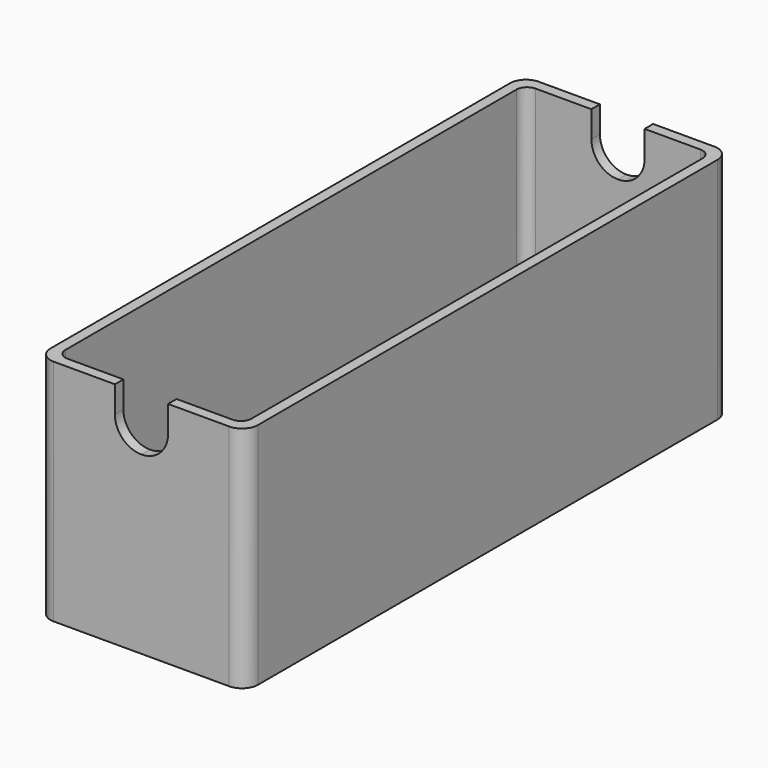
from build123d import *

# Parameters (mm, degrees)
F4_W      = 39
F4_H      = 114
F5_DEPTH  = 43
F6_T      = -2
F7_W      = 35
F7_H      = 2
F8_DEPTH  = 6
F9_W      = 2.75
F9_H      = 2
F10_DEPTH = 2
F11_R     = 2
F13_DEPTH = 114.001
F14_R     = 3


with BuildPart() as f5:
    # F4 (on Top) → F5 (new body)
    with BuildSketch(Plane.XY):
        Rectangle(F4_W, F4_H)
    extrude(amount=F5_DEPTH)

    # F6
    f6_openings = [f5.faces().sort_by_distance(p)[0] for p in [
        (0, 0, 43),
    ]]
    offset(amount=F6_T, openings=f6_openings)

    # F7 (on face) → F8 (join)
    with BuildSketch(Plane.XY.offset(2)):
        with Locations((0, 36.5)):
            Rectangle(F7_W, F7_H)
        with Locations((0, -49)):
            Rectangle(F7_W, F7_H)
    extrude(amount=F8_DEPTH)

    # F9 (on face) → F10 (join)
    with BuildSketch(Plane.XY.offset(8)):
        with Locations((-16.125, 36.5)):
            Rectangle(F9_W, F9_H)
        with Locations((16.125, 36.5)):
            Rectangle(F9_W, F9_H)
        with Locations((-16.125, -49)):
            Rectangle(F9_W, F9_H)
        with Locations((16.125, -49)):
            Rectangle(F9_W, F9_H)
    extrude(amount=F10_DEPTH)

    # F11
    f11_edges = [f5.edges().sort_by_distance(p)[0] for p in [
        (-17.5, 55, 22.5),
        (-17.5, 46.25, 2),
        (0, 55, 2),
        (-17.5, -6.25, 2),
        (0, -48, 2),
        (-17.5, -52.5, 2),
        (0, -50, 2),
        (0, -55, 2),
        (-17.5, -55, 22.5),
        (17.5, -55, 22.5),
        (17.5, -52.5, 2),
        (17.5, -6.25, 2),
        (0, 37.5, 2),
        (0, 35.5, 2),
        (17.5, 46.25, 2),
        (17.5, 55, 22.5),
    ]]
    fillet(f11_edges, radius=F11_R)

    # F12 (on face) → F13 (cut, through all)
    with BuildSketch(Plane.XZ.offset(57)):
        with BuildLine():
            Line((-5, 43), (-5, 38))
            ThreePointArc((-5, 38), (-3.5355339142, 41.5355338977), (-2.33e-08, 43))
            Line((-2.33e-08, 43), (-5, 43))
        make_face()
        with BuildLine():
            ThreePointArc((-5, 38), (-3.5355339059, 34.4644660941), (0, 33))
            ThreePointArc((0, 33), (3.5355339059, 34.4644660941), (5, 38))
            ThreePointArc((5, 38), (3.5355338977, 41.5355339142), (-2.33e-08, 43))
            ThreePointArc((-2.33e-08, 43), (-3.5355339142, 41.5355338977), (-5, 38))
        make_face()
        with BuildLine():
            ThreePointArc((-2.33e-08, 43), (3.5355338977, 41.5355339142), (5, 38))
            Line((5, 38), (5, 43))
            Line((5, 43), (-2.33e-08, 43))
        make_face()
    extrude(amount=-F13_DEPTH, mode=Mode.SUBTRACT)

    # F14
    f14_edges = [f5.edges().sort_by_distance(p)[0] for p in [
        (19.5, -57, 21.5),
        (19.5, 57, 21.5),
        (-19.5, 57, 21.5),
        (-19.5, -57, 21.5),
    ]]
    fillet(f14_edges, radius=F14_R)


solid = f5.part
